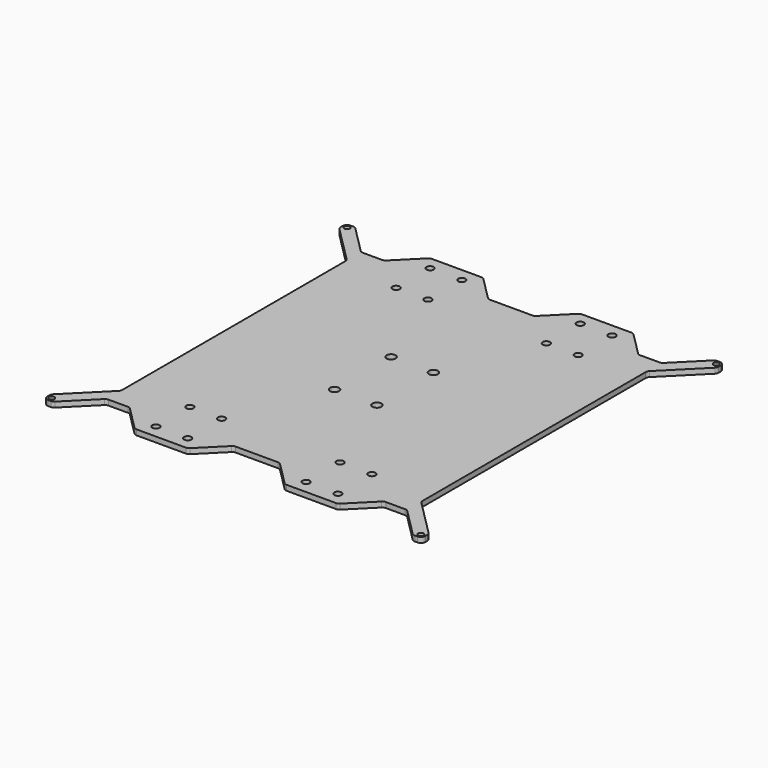
from build123d import *

# Parameters (mm, degrees)
F0_R     = 1.55
F0_R_2   = 2.05
F0_R_3   = 2.55
F1_DEPTH = 3


with BuildPart() as f1:
    # F0 (on Top) → F1 (new body)
    with BuildSketch(Plane.XY):
        with BuildLine():
            Line((-103.035534, 107), (-104.5, 107))
            ThreePointArc((-104.5, 107), (-106.267767, 106.267767), (-107, 104.5))
            Line((-107, 104.5), (-107, 103.035534))
            ThreePointArc((-107, 103.035534), (-106.809699, 102.078825), (-106.267767, 101.267767))
            Line((-106.267767, 101.267767), (-85.732233, 80.732233))
            ThreePointArc((-85.732233, 80.732233), (-85.190301, 79.921175), (-85, 78.964466))
            Line((-85, 78.964466), (-85, -78.964466))
            ThreePointArc((-85, -78.964466), (-85.190301, -79.921175), (-85.732233, -80.732233))
            Line((-85.732233, -80.732233), (-106.267767, -101.267767))
            ThreePointArc((-106.267767, -101.267767), (-106.809699, -102.078825), (-107, -103.035534))
            Line((-107, -103.035534), (-107, -104.5))
            ThreePointArc((-107, -104.5), (-106.267767, -106.267767), (-104.5, -107))
            Line((-104.5, -107), (-103.035534, -107))
            ThreePointArc((-103.035534, -107), (-102.078825, -106.809699), (-101.267767, -106.267767))
            Line((-101.267767, -106.267767), (-85.732233, -90.732233))
            ThreePointArc((-85.732233, -90.732233), (-84.921175, -90.190301), (-83.964466, -90))
            Line((-83.964466, -90), (-73.035534, -90))
            ThreePointArc((-73.035534, -90), (-72.078825, -90.190301), (-71.267767, -90.732233))
            Line((-71.267767, -90.732233), (-58.232233, -103.767767))
            ThreePointArc((-58.232233, -103.767767), (-57.421175, -104.309699), (-56.464466, -104.5))
            Line((-56.464466, -104.5), (-28.535534, -104.5))
            ThreePointArc((-28.535534, -104.5), (-27.578825, -104.309699), (-26.767767, -103.767767))
            Line((-26.767767, -103.767767), (-13.732233, -90.732233))
            ThreePointArc((-13.732233, -90.732233), (-12.921175, -90.190301), (-11.964466, -90))
            Line((-11.964466, -90), (11.964466, -90))
            ThreePointArc((11.964466, -90), (12.921175, -90.190301), (13.732233, -90.732233))
            Line((13.732233, -90.732233), (26.767767, -103.767767))
            ThreePointArc((26.767767, -103.767767), (27.578825, -104.309699), (28.535534, -104.5))
            Line((28.535534, -104.5), (56.464466, -104.5))
            ThreePointArc((56.464466, -104.5), (57.421175, -104.309699), (58.232233, -103.767767))
            Line((58.232233, -103.767767), (71.267767, -90.732233))
            ThreePointArc((71.267767, -90.732233), (72.078825, -90.190301), (73.035534, -90))
            Line((73.035534, -90), (83.964466, -90))
            ThreePointArc((83.964466, -90), (84.921175, -90.190301), (85.732233, -90.732233))
            Line((85.732233, -90.732233), (101.267767, -106.267767))
            ThreePointArc((101.267767, -106.267767), (102.078825, -106.809699), (103.035534, -107))
            Line((103.035534, -107), (104.5, -107))
            ThreePointArc((104.5, -107), (106.267767, -106.267767), (107, -104.5))
            Line((107, -104.5), (107, -103.035534))
            ThreePointArc((107, -103.035534), (106.809699, -102.078825), (106.267767, -101.267767))
            Line((106.267767, -101.267767), (85.732233, -80.732233))
            ThreePointArc((85.732233, -80.732233), (85.190301, -79.921175), (85, -78.964466))
            Line((85, -78.964466), (85, 78.964466))
            ThreePointArc((85, 78.964466), (85.190301, 79.921175), (85.732233, 80.732233))
            Line((85.732233, 80.732233), (106.267767, 101.267767))
            ThreePointArc((106.267767, 101.267767), (106.809699, 102.078825), (107, 103.035534))
            Line((107, 103.035534), (107, 104.5))
            ThreePointArc((107, 104.5), (106.267767, 106.267767), (104.5, 107))
            Line((104.5, 107), (103.035534, 107))
            ThreePointArc((103.035534, 107), (102.078825, 106.809699), (101.267767, 106.267767))
            Line((101.267767, 106.267767), (85.732233, 90.732233))
            ThreePointArc((85.732233, 90.732233), (84.921175, 90.190301), (83.964466, 90))
            Line((83.964466, 90), (73.035534, 90))
            ThreePointArc((73.035534, 90), (72.078825, 90.190301), (71.267767, 90.732233))
            Line((71.267767, 90.732233), (58.232233, 103.767767))
            ThreePointArc((58.232233, 103.767767), (57.421175, 104.309699), (56.464466, 104.5))
            Line((56.464466, 104.5), (28.535534, 104.5))
            ThreePointArc((28.535534, 104.5), (27.578825, 104.309699), (26.767767, 103.767767))
            Line((26.767767, 103.767767), (13.732233, 90.732233))
            ThreePointArc((13.732233, 90.732233), (12.921175, 90.190301), (11.964466, 90))
            Line((11.964466, 90), (-11.964466, 90))
            ThreePointArc((-11.964466, 90), (-12.921175, 90.190301), (-13.732233, 90.732233))
            Line((-13.732233, 90.732233), (-26.767767, 103.767767))
            ThreePointArc((-26.767767, 103.767767), (-27.578825, 104.309699), (-28.535534, 104.5))
            Line((-28.535534, 104.5), (-56.464466, 104.5))
            ThreePointArc((-56.464466, 104.5), (-57.421175, 104.309699), (-58.232233, 103.767767))
            Line((-58.232233, 103.767767), (-71.267767, 90.732233))
            ThreePointArc((-71.267767, 90.732233), (-72.078825, 90.190301), (-73.035534, 90))
            Line((-73.035534, 90), (-83.964466, 90))
            ThreePointArc((-83.964466, 90), (-84.921175, 90.190301), (-85.732233, 90.732233))
            Line((-85.732233, 90.732233), (-101.267767, 106.267767))
            ThreePointArc((-101.267767, 106.267767), (-102.078825, 106.809699), (-103.035534, 107))
        make_face()
        with Locations((-104.5, -104.5)):
            Circle(F0_R, mode=Mode.SUBTRACT)
        with Locations((-51.5, -97)):
            Circle(F0_R_2, mode=Mode.SUBTRACT)
        with Locations((-33.5, -97)):
            Circle(F0_R_2, mode=Mode.SUBTRACT)
        with Locations((-51.5, -73)):
            Circle(F0_R_2, mode=Mode.SUBTRACT)
        with Locations((-33.5, -73)):
            Circle(F0_R_2, mode=Mode.SUBTRACT)
        with Locations((-12, -20)):
            Circle(F0_R_3, mode=Mode.SUBTRACT)
        with Locations((33.5, -97)):
            Circle(F0_R_2, mode=Mode.SUBTRACT)
        with Locations((51.5, -97)):
            Circle(F0_R_2, mode=Mode.SUBTRACT)
        with Locations((33.5, -73)):
            Circle(F0_R_2, mode=Mode.SUBTRACT)
        with Locations((51.5, -73)):
            Circle(F0_R_2, mode=Mode.SUBTRACT)
        with Locations((104.5, -104.5)):
            Circle(F0_R, mode=Mode.SUBTRACT)
        with Locations((12, -20)):
            Circle(F0_R_3, mode=Mode.SUBTRACT)
        with Locations((-12, 20)):
            Circle(F0_R_3, mode=Mode.SUBTRACT)
        with Locations((-104.5, 104.5)):
            Circle(F0_R, mode=Mode.SUBTRACT)
        with Locations((-51.5, 73)):
            Circle(F0_R_2, mode=Mode.SUBTRACT)
        with Locations((-33.5, 73)):
            Circle(F0_R_2, mode=Mode.SUBTRACT)
        with Locations((-51.5, 97)):
            Circle(F0_R_2, mode=Mode.SUBTRACT)
        with Locations((-33.5, 97)):
            Circle(F0_R_2, mode=Mode.SUBTRACT)
        with Locations((12, 20)):
            Circle(F0_R_3, mode=Mode.SUBTRACT)
        with Locations((33.5, 73)):
            Circle(F0_R_2, mode=Mode.SUBTRACT)
        with Locations((51.5, 73)):
            Circle(F0_R_2, mode=Mode.SUBTRACT)
        with Locations((33.5, 97)):
            Circle(F0_R_2, mode=Mode.SUBTRACT)
        with Locations((51.5, 97)):
            Circle(F0_R_2, mode=Mode.SUBTRACT)
        with Locations((104.5, 104.5)):
            Circle(F0_R, mode=Mode.SUBTRACT)
    extrude(amount=F1_DEPTH)


solid = f1.part
